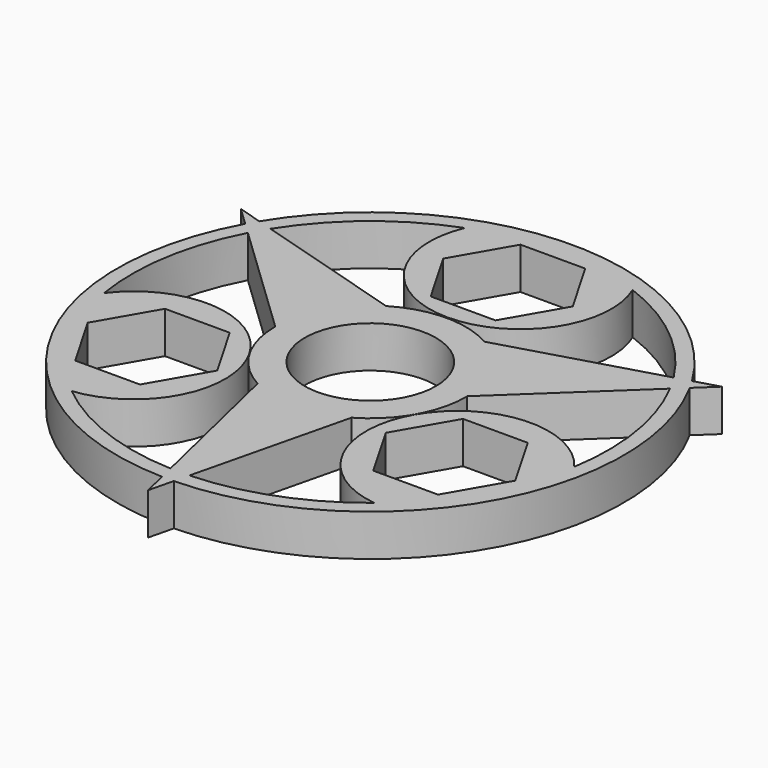
from build123d import *

# Parameters (mm, degrees)
F0_R     = 11
F1_DEPTH = 7


with BuildPart() as f1:
    # F0 (on Top) → F1 (new body)
    with BuildSketch(Plane.XY):
        with BuildLine():
            Line((33.80587, 21.381374), (8.052456, 13.825989))
            ThreePointArc((8.052456, 13.825989), (-0.138632, 15.999399), (-8.290829, 13.684376))
            Line((-8.290829, 13.684376), (-33.828854, 21.344991))
            Line((-33.828854, 21.344991), (-36.308819, 22.088904))
            Line((-36.308819, 22.088904), (-40.368203, 23.306593))
            Line((-40.368203, 23.306593), (-37.296718, 20.376575))
            Line((-37.296718, 20.376575), (-35.419748, 18.586055))
            Line((-35.419748, 18.586055), (-15.999885, 0.060637))
            ThreePointArc((-15.999885, 0.060637), (-13.78657, -8.119759), (-7.705603, -14.022257))
            Line((-7.705603, -14.022257), (-1.570878, -39.969142))
            Line((-1.570878, -39.969142), (-0.975142, -42.488811))
            Line((-0.975142, -42.488811), (0, -46.613185))
            Line((0, -46.613185), (1.001727, -42.488193))
            Line((1.001727, -42.488193), (1.613878, -39.967429))
            Line((1.613878, -39.967429), (7.94743, -13.886625))
            ThreePointArc((7.94743, -13.886625), (13.925203, -7.87964), (15.996432, 0.33788))
            Line((15.996432, 0.33788), (35.399731, 18.624151))
            Line((35.399731, 18.624151), (37.283961, 20.399908))
            Line((37.283961, 20.399908), (40.368203, 23.306593))
            Line((40.368203, 23.306593), (36.294991, 22.111618))
            Line((36.294991, 22.111618), (33.80587, 21.381374))
        make_face()
        Circle(F0_R, mode=Mode.SUBTRACT)
        with BuildLine():
            ThreePointArc((14.072932, 37.442657), (25.250468, 31.022796), (33.80587, 21.381374))
            Line((33.80587, 21.381374), (36.294991, 22.111618))
            ThreePointArc((36.294991, 22.111618), (-0.013296, 42.499998), (-36.308819, 22.088904))
            Line((-36.308819, 22.088904), (-33.828854, 21.344991))
            ThreePointArc((-33.828854, 21.344991), (-25.267152, 31.009209), (-14.072932, 37.442657))
            ThreePointArc((-14.072932, 37.442657), (0, 16.202507), (14.072932, 37.442657))
        make_face()
        Polygon((-10.871506, 28.880108), (-5.435753, 38.295108), (5.435753, 38.295108), (10.871506, 28.880108), (5.435753, 19.465108), (-5.435753, 19.465108), align=None, mode=Mode.SUBTRACT)
        with BuildLine():
            ThreePointArc((1.001727, -42.488193), (36.812726, -21.238484), (37.283961, 20.399908))
            Line((37.283961, 20.399908), (35.399731, 18.624151))
            ThreePointArc((35.399731, 18.624151), (39.488339, 6.377391), (39.462758, -6.533812))
            ThreePointArc((39.462758, -6.533812), (13.883456, -8.015617), (25.389827, -30.908845))
            ThreePointArc((25.389827, -30.908845), (14.241296, -37.378945), (1.613878, -39.967429))
            Line((1.613878, -39.967429), (1.001727, -42.488193))
        make_face()
        Polygon((19.575155, -5.025054), (30.44666, -5.025054), (35.882413, -14.440054), (30.44666, -23.855054), (19.575155, -23.855054), (14.139402, -14.440054), align=None, mode=Mode.SUBTRACT)
        with BuildLine():
            Line((-35.419748, 18.586055), (-37.296718, 20.376575))
            ThreePointArc((-37.296718, 20.376575), (-36.79943, -21.261514), (-0.975142, -42.488811))
            Line((-0.975142, -42.488811), (-1.570878, -39.969142))
            ThreePointArc((-1.570878, -39.969142), (-14.221186, -37.3866), (-25.389827, -30.908845))
            ThreePointArc((-25.389827, -30.908845), (-13.883456, -8.015617), (-39.462758, -6.533812))
            ThreePointArc((-39.462758, -6.533812), (-39.491763, 6.356148), (-35.419748, 18.586055))
        make_face()
        Polygon((-14.139402, -14.440054), (-19.575155, -23.855054), (-30.44666, -23.855054), (-35.882413, -14.440054), (-30.44666, -5.025054), (-19.575155, -5.025054), align=None, mode=Mode.SUBTRACT)
    extrude(amount=F1_DEPTH)


solid = f1.part
